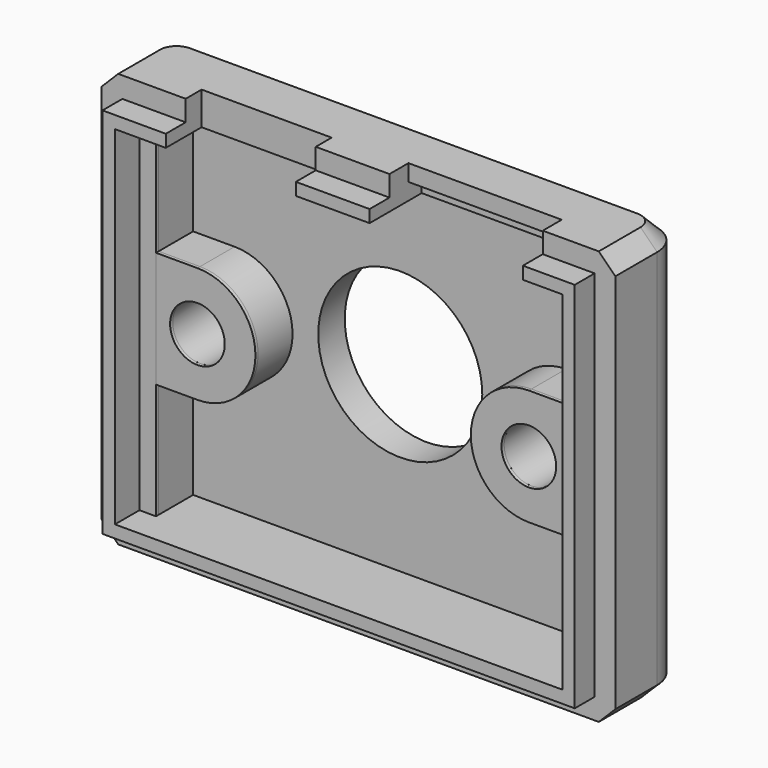
from build123d import *

# Parameters (mm, degrees)
BOX_W              = 9.25
BOX_H              = 1
BOX_DEPTH          = 1
BOX007_W           = 7.85
BOX007_H           = 2.1
BOX007_DEPTH       = 10
BOX006_W           = 7.85
BOX006_H           = 2.1
BOX006_DEPTH       = 10
BOX008_W           = 9.25
BOX008_H           = 2.55
BOX008_DEPTH       = 10
BOX005_W           = 9.25
BOX005_H           = 2.55
BOX005_DEPTH       = 10
BOX004_W           = 28.5
BOX004_H           = 0.25
BOX004_DEPTH       = 22.5
BOX003_W           = 31
BOX003_H           = 0.25
BOX003_DEPTH       = 25
BOX002_W           = 27
BOX002_H           = 1.25
BOX002_DEPTH       = 21
BOX001_W           = 28.5
BOX001_H           = 1.25
BOX001_DEPTH       = 22.5
CYLINDER_R         = 1.65
CYLINDER_DEPTH     = 3.4
CYLINDER001_R      = 1.65
CYLINDER001_DEPTH  = 3.4
SKETCH_W           = 31
SKETCH_H           = 25
PAD_DEPTH          = 5.4
SKETCH003_W        = 27
SKETCH003_H        = 21
POCKET_DEPTH       = 3.4
SKETCH001_W        = 1
SKETCH001_H        = 21
PAD001_DEPTH       = 2.6
PAD002_DEPTH       = 2.6
SKETCH004_R        = 4.95
POCKET001_DEPTH    = 11
FILLET001_R        = 2
CHAMFER_SIZE       = 1
FACE_R             = 1.65
EXTRUSION_DEPTH    = 0.2
EXTRUSION001_DEPTH = 0.2
FACE004_R          = 1.65
EXTRUSION002_DEPTH = 0.2
EXTRUSION003_DEPTH = 0.2


with BuildPart() as obj1:
    # Box → Box (new body)
    with BuildSketch(Plane(origin=(17.37, 1.68, 23), x_dir=(1, 0, 0), z_dir=(0, 0, 1))):
        with Locations((4.625, 0.5)):
            Rectangle(BOX_W, BOX_H)
    extrude(amount=BOX_DEPTH)


with BuildPart() as micro_cutout_upper:
    # Box007 → Box007 (new body)
    with BuildSketch(Plane(origin=(5.07, -1.65, 20), x_dir=(1, 0, 0), z_dir=(0, 0, 1))):
        with Locations((3.925, 1.05)):
            Rectangle(BOX007_W, BOX007_H)
    extrude(amount=BOX007_DEPTH)


with BuildPart() as fusion003:
    # Box006 → Box006 (new body)
    with BuildSketch(Plane(origin=(5.07, -0.65, 20), x_dir=(1, 0, 0), z_dir=(0, 0, 1))):
        with Locations((3.925, 1.05)):
            Rectangle(BOX006_W, BOX006_H)
    extrude(amount=BOX006_DEPTH)

    # Fusion003: union Micro_cutout_upper
    add(micro_cutout_upper.part)


with BuildPart() as obj2:
    # Box008 → Box008 (new body)
    with BuildSketch(Plane(origin=(17.37, -1.87, 20), x_dir=(1, 0, 0), z_dir=(0, 0, 1))):
        with Locations((4.625, 1.275)):
            Rectangle(BOX008_W, BOX008_H)
    extrude(amount=BOX008_DEPTH)


with BuildPart() as fusion002:
    # Box005 → Box005 (new body)
    with BuildSketch(Plane(origin=(17.37, -0.87, 20), x_dir=(1, 0, 0), z_dir=(0, 0, 1))):
        with Locations((4.625, 1.275)):
            Rectangle(BOX005_W, BOX005_H)
    extrude(amount=BOX005_DEPTH)

    # Fusion002: union obj2
    add(obj2.part)


with BuildPart() as cube004:
    # Box004 → Box004 (new body)
    with BuildSketch(Plane(origin=(1.25, 0, 1.25), x_dir=(1, 0, 0), z_dir=(0, 0, 1))):
        with Locations((14.25, 0.125)):
            Rectangle(BOX004_W, BOX004_H)
    extrude(amount=BOX004_DEPTH)


with BuildPart() as cut002:
    # Box003 → Box003 (new body)
    with BuildSketch(Plane.XY):
        with Locations((15.5, 0.125)):
            Rectangle(BOX003_W, BOX003_H)
    extrude(amount=BOX003_DEPTH)

    # Cut002: cut Cube004
    add(cube004.part, mode=Mode.SUBTRACT)


with BuildPart() as cube002:
    # Box002 → Box002 (new body)
    with BuildSketch(Plane(origin=(2, 0, 2), x_dir=(1, 0, 0), z_dir=(0, 0, 1))):
        with Locations((13.5, 0.625)):
            Rectangle(BOX002_W, BOX002_H)
    extrude(amount=BOX002_DEPTH)


with BuildPart() as latch:
    # Box001 → Box001 (new body)
    with BuildSketch(Plane(origin=(1.25, 0, 1.25), x_dir=(1, 0, 0), z_dir=(0, 0, 1))):
        with Locations((14.25, 0.625)):
            Rectangle(BOX001_W, BOX001_H)
    extrude(amount=BOX001_DEPTH)

    # Cut001: cut Cube002
    add(cube002.part, mode=Mode.SUBTRACT)


with BuildPart() as latch_1:
    # Cut001 placement: moved
    add(latch.part.moved(Location((0, -1.25, 0))))


with BuildPart() as leftscrewhole:
    # Cylinder → Cylinder (new body)
    with BuildSketch(Plane(origin=(25.5, 4, 13), x_dir=(1, 0, 0), z_dir=(0, -1, 0))):
        Circle(CYLINDER_R)
    extrude(amount=CYLINDER_DEPTH)


with BuildPart() as screwholecutout:
    # Cylinder001 → Cylinder001 (new body)
    with BuildSketch(Plane(origin=(5.5, 4, 13), x_dir=(1, 0, 0), z_dir=(0, -1, 0))):
        Circle(CYLINDER001_R)
    extrude(amount=CYLINDER001_DEPTH)

    # Fusion001: union leftScrewHole
    add(leftscrewhole.part)


with BuildPart() as screwholecutout_1:
    # Fusion001 placement: moved
    add(screwholecutout.part.moved(Location((0, 0, -0.5))))


with BuildPart() as cut006:
    # Sketch → Pad (new body)
    with BuildSketch(Plane.XZ):
        with Locations((15.5, 12.5)):
            Rectangle(SKETCH_W, SKETCH_H)
    extrude(amount=-PAD_DEPTH)

    # Sketch003 → Pocket (cut)
    with BuildSketch(Plane.XZ):
        with Locations((15.5, 12.5)):
            Rectangle(SKETCH003_W, SKETCH003_H)
    extrude(amount=-POCKET_DEPTH, mode=Mode.SUBTRACT)

    # Sketch001 → Pad001 (join)
    with BuildSketch(Plane.XZ.offset(-3.4)):
        with Locations((28.5, 12.5)):
            Rectangle(SKETCH001_W, SKETCH001_H)
        with Locations((2.5, 12.5)):
            Rectangle(SKETCH001_W, SKETCH001_H)
    extrude(amount=PAD001_DEPTH)

    # Sketch002 → Pad002 (join)
    with BuildSketch(Plane.XZ.offset(-3.4)):
        with BuildLine():
            Line((3, 16), (5.5, 16))
            ThreePointArc((5.5, 9), (9, 12.5), (5.5, 16))
            Line((3, 9), (5.5, 9))
            Line((3, 16), (3, 9))
        make_face()
        with BuildLine():
            Line((25.5, 16), (28, 16))
            Line((28, 16), (28, 9))
            Line((25.5, 9), (28, 9))
            ThreePointArc((25.5, 16), (22, 12.5), (25.5, 9))
        make_face()
    extrude(amount=PAD002_DEPTH)

    # Sketch004 → Pocket001 (cut)
    with BuildSketch(Plane.XZ):
        with Locations((15.5, 13)):
            Circle(SKETCH004_R)
    extrude(amount=-POCKET001_DEPTH, mode=Mode.SUBTRACT)

    # Cut: cut screwHoleCutout
    add(screwholecutout_1.part, mode=Mode.SUBTRACT)

    # Fusion: union latch
    add(latch_1.part)

    # Cut003: cut Cut002
    add(cut002.part, mode=Mode.SUBTRACT)

    # Cut004: cut Fusion002
    add(fusion002.part, mode=Mode.SUBTRACT)

    # Cut005: cut Fusion003
    add(fusion003.part, mode=Mode.SUBTRACT)

    # Fillet001
    fillet001_edges = [cut006.edges().sort_by_distance(p)[0] for p in [
        (31, 5.4, 12.5),
        (0, 5.4, 12.5),
    ]]
    fillet(fillet001_edges, radius=FILLET001_R)

    # Chamfer
    chamfer_edges = [cut006.edges().sort_by_distance(p)[0] for p in [
        (31, 1.825, 0),
        (30.414214, 4.814214, 0),
        (15.5, 5.4, 0),
        (0, 1.825, 0),
        (0.585786, 4.814214, 0),
        (31, 1.825, 25),
        (30.414214, 4.814214, 25),
        (15.5, 5.4, 25),
        (0, 1.825, 25),
        (0.585786, 4.814214, 25),
    ]]
    chamfer(chamfer_edges, length=CHAMFER_SIZE)

    # Cut006: cut obj1
    add(obj1.part, mode=Mode.SUBTRACT)


with BuildPart() as extrusion:
    # Face → Extrusion (new body)
    with BuildSketch(Plane(origin=(5.737975, 0.8, 12.5), x_dir=(-1, 0, 0), z_dir=(0, -1, 0))):
        with BuildLine():
            Line((2.737975, -3.5), (2.737975, 3.5))
            Line((2.737975, 3.5), (0.237975, 3.5))
            ThreePointArc((0.237975, 3.5), (-3.262025, 0), (0.237975, -3.5))
            Line((0.237975, -3.5), (2.737975, -3.5))
        make_face()
        with Locations((0.237975, 0)):
            Circle(FACE_R, mode=Mode.SUBTRACT)
    extrude(amount=EXTRUSION_DEPTH)


with BuildPart() as extrusion001:
    # Face001 → Extrusion001 (new body)
    with BuildSketch(Plane(origin=(2.5, 0.8, 12.5), x_dir=(-1, 0, 0), z_dir=(0, -1, 0))):
        Polygon((-0.5, -10.5), (0.5, -10.5), (0.5, 10.5), (-0.5, 10.5), (-0.5, 3.5), (-0.5, -3.5), align=None)
    extrude(amount=EXTRUSION001_DEPTH)


with BuildPart() as extrusion002:
    # Face004 → Extrusion002 (new body)
    with BuildSketch(Plane(origin=(25.262025, 0.8, 12.5), x_dir=(-1, 0, 0), z_dir=(0, -1, 0))):
        with BuildLine():
            Line((-2.737975, -3.5), (-0.237975, -3.5))
            ThreePointArc((-0.237975, -3.5), (3.262025, 0), (-0.237975, 3.5))
            Line((-0.237975, 3.5), (-2.737975, 3.5))
            Line((-2.737975, 3.5), (-2.737975, -3.5))
        make_face()
        with Locations((-0.237975, 0)):
            Circle(FACE004_R, mode=Mode.SUBTRACT)
    extrude(amount=EXTRUSION002_DEPTH)


with BuildPart() as extrusion003:
    # Face005 → Extrusion003 (new body)
    with BuildSketch(Plane(origin=(28.5, 0.8, 12.5), x_dir=(-1, 0, 0), z_dir=(0, -1, 0))):
        Polygon((-0.5, 10.5), (-0.5, -10.5), (0.5, -10.5), (0.5, -3.5), (0.5, 3.5), (0.5, 10.5), align=None)
    extrude(amount=EXTRUSION003_DEPTH)


solid = Compound([cut006.part, extrusion.part, extrusion001.part, extrusion002.part, extrusion003.part])
